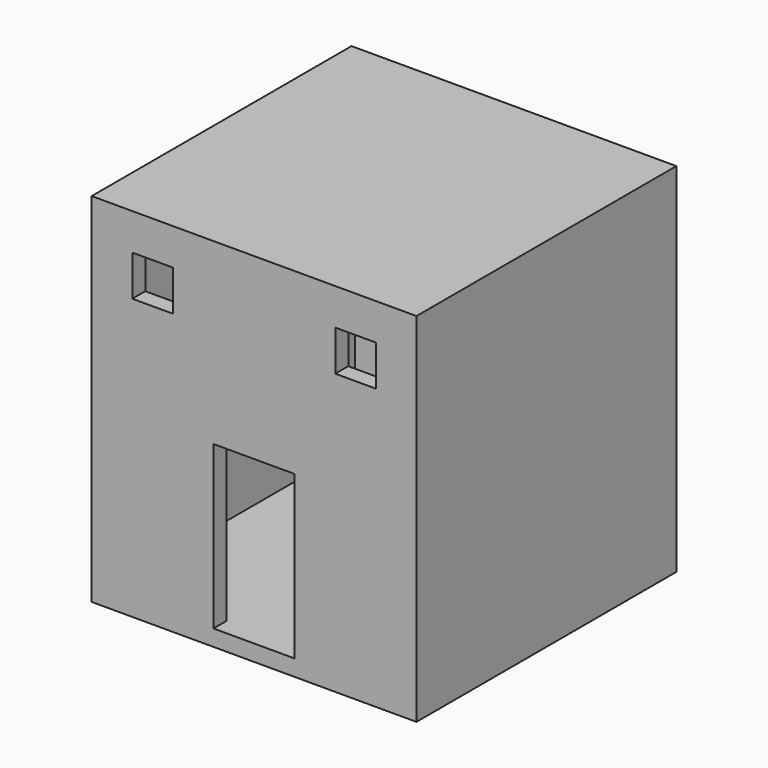
from build123d import *

# Parameters (mm, degrees)
F0_W     = 101.6
F0_H     = 101.6
F1_DEPTH = 5.08
F2_W     = 91.44
F2_H     = 5.08
F3_DEPTH = 101.6
F4_W     = 25.4
F4_H     = 50.8
F4_W_2   = 12.7
F4_H_2   = 12.7
F5_DEPTH = 5.08
F6_W     = 25.4
F6_H     = 25.4
F7_DEPTH = 5.08
F8_W     = 101.6
F8_H     = 101.6
F9_DEPTH = 5.08


with BuildPart() as f1:
    # F0 (on Top) → F1 (new body)
    with BuildSketch(Plane.XY):
        Rectangle(F0_W, F0_H)
    extrude(amount=F1_DEPTH)

    # F2 (on face) → F3 (join)
    with BuildSketch(Plane.XY.offset(5.08)):
        Polygon((-45.72, 50.8), (-50.8, 50.8), (-50.8, -50.8), (-45.72, -50.8), (-45.72, -45.72), (-45.72, 45.72), align=None)
        with Locations((0, 48.26)):
            Rectangle(F2_W, F2_H)
        Polygon((50.8, 50.8), (45.72, 50.8), (45.72, 45.72), (45.72, -45.72), (45.72, -50.8), (50.8, -50.8), align=None)
        with Locations((0, -48.26)):
            Rectangle(F2_W, F2_H)
    extrude(amount=F3_DEPTH)

    # F4 (on face) → F5 (cut, through all)
    with BuildSketch(Plane.XZ.offset(50.8)):
        with Locations((0, 30.48)):
            Rectangle(F4_W, F4_H)
        with Locations((-31.75, 93.98)):
            Rectangle(F4_W_2, F4_H_2)
        with Locations((31.75, 93.98)):
            Rectangle(F4_W_2, F4_H_2)
    extrude(amount=-F5_DEPTH, mode=Mode.SUBTRACT)

    # F6 (on face) → F7 (cut, through all)
    with BuildSketch(Plane(origin=(0, 50.8, 0), x_dir=(-1, 0, 0), z_dir=(0, 1, 0))):
        with Locations((-25.4, 81.28)):
            Rectangle(F6_W, F6_H)
        with Locations((25.4, 81.28)):
            Rectangle(F6_W, F6_H)
    extrude(amount=-F7_DEPTH, mode=Mode.SUBTRACT)

    # F8 (on face) → F9 (join)
    with BuildSketch(Plane.XY.offset(106.68)):
        Rectangle(F8_W, F8_H)
    extrude(amount=F9_DEPTH)


solid = f1.part
